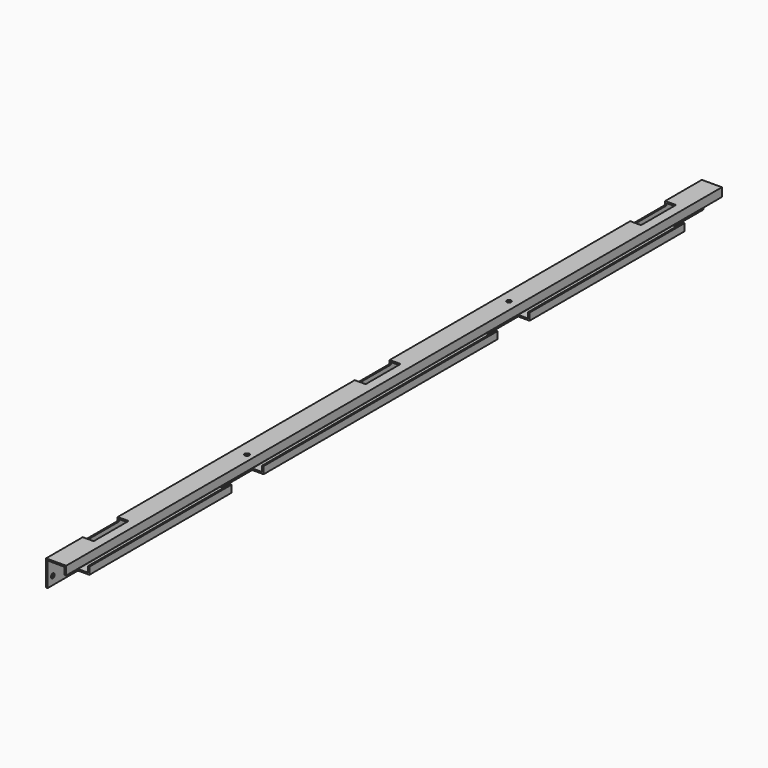
from build123d import *

# Parameters (mm, degrees)
F1_DEPTH  = 1816.1
F2_R      = 4.953
F2_R_2    = 4.9657
F3_DEPTH  = 25.4
F4_R      = 4.953
F5_DEPTH  = 25.4
F6_R      = 4.953
F7_DEPTH  = 25.4
F8_W      = 23.9268
F8_H      = 96.8375
F8_W_2    = 24.13
F9_DEPTH  = 7.62
F10_R     = 4.953
F11_DEPTH = 25.4
F12_W     = 84.1502
F12_H     = 15.875
F12_W_2   = 88.9
F12_W_3   = 84.1248
F13_DEPTH = 25.273


with BuildPart() as f1:
    # F0 (on Front) → F1 (new body)
    with BuildSketch(Plane.XZ):
        Polygon((44.45, 0), (0, 0), (0, -57.15), (28.575, -57.15), (28.575, -41.275), (25.273, -41.275), (25.273, -53.848), (3.302, -53.848), (3.302, -3.302), (41.148, -3.302), (41.148, -19.05), (44.45, -19.05), align=None)
    extrude(amount=F1_DEPTH)

    # F2 (on face) → F3 (cut)
    with BuildSketch(Plane.XY):
        with Locations((23.622, -563.751269)):
            Circle(F2_R)
        with Locations((28.575, -1295.4)):
            Circle(F2_R_2)
    extrude(amount=-F3_DEPTH, mode=Mode.SUBTRACT)

    # F4 (on face) → F5 (cut)
    with BuildSketch(Plane(origin=(0, 0, 0), x_dir=(0, -1, 0), z_dir=(-1, 0, 0))):
        with Locations((14.2748, -38.8874)):
            Circle(F4_R)
        with Locations((65.0748, -38.8874)):
            Circle(F4_R)
        with Locations((531.7998, -38.8874)):
            Circle(F4_R)
        with Locations((582.5998, -38.8874)):
            Circle(F4_R)
        with Locations((1268.3998, -38.8874)):
            Circle(F4_R)
        with Locations((1319.1998, -38.8874)):
            Circle(F4_R)
        with Locations((1750.9998, -38.8874)):
            Circle(F4_R)
        with Locations((1801.7998, -38.8874)):
            Circle(F4_R)
    extrude(amount=-F5_DEPTH, mode=Mode.SUBTRACT)

    # F6 (on face) → F7 (cut)
    with BuildSketch(Plane(origin=(0, 0, 0), x_dir=(0, -1, 0), z_dir=(-1, 0, 0))):
        with Locations((833.4375, -28.575)):
            Circle(F6_R)
        with Locations((993.775, -28.575)):
            Circle(F6_R)
    extrude(amount=-F7_DEPTH, mode=Mode.SUBTRACT)

    # F8 (on face) → F9 (cut)
    with BuildSketch(Plane.XY):
        with Locations((11.9634, -150.01875)):
            Rectangle(F8_W, F8_H)
        with Locations((12.065, -1666.08125)):
            Rectangle(F8_W_2, F8_H)
        with Locations((12.065, -912.80615)):
            Rectangle(F8_W_2, F8_H)
    extrude(amount=-F9_DEPTH, mode=Mode.SUBTRACT)

    # F10 (on face) → F11 (cut)
    with BuildSketch(Plane(origin=(0, 0, 0), x_dir=(0, -1, 0), z_dir=(-1, 0, 0))):
        with Locations((150.0251, -31.9405)):
            Circle(F10_R)
        with Locations((912.8125, -26.9875)):
            Circle(F10_R)
        with Locations((1666.0876, -26.9875)):
            Circle(F10_R)
    extrude(amount=-F11_DEPTH, mode=Mode.SUBTRACT)

    # F12 (on face) → F13 (cut, through all)
    with BuildSketch(Plane.YZ.offset(28.575)):
        with Locations((-1774.0249, -49.2125)):
            Rectangle(F12_W, F12_H)
        with Locations((-1293.7998, -49.2125)):
            Rectangle(F12_W_2, F12_H)
        with Locations((-557.1998, -49.2125)):
            Rectangle(F12_W_2, F12_H)
        with Locations((-42.0624, -49.2125)):
            Rectangle(F12_W_3, F12_H)
    extrude(amount=-F13_DEPTH, mode=Mode.SUBTRACT)


solid = f1.part
